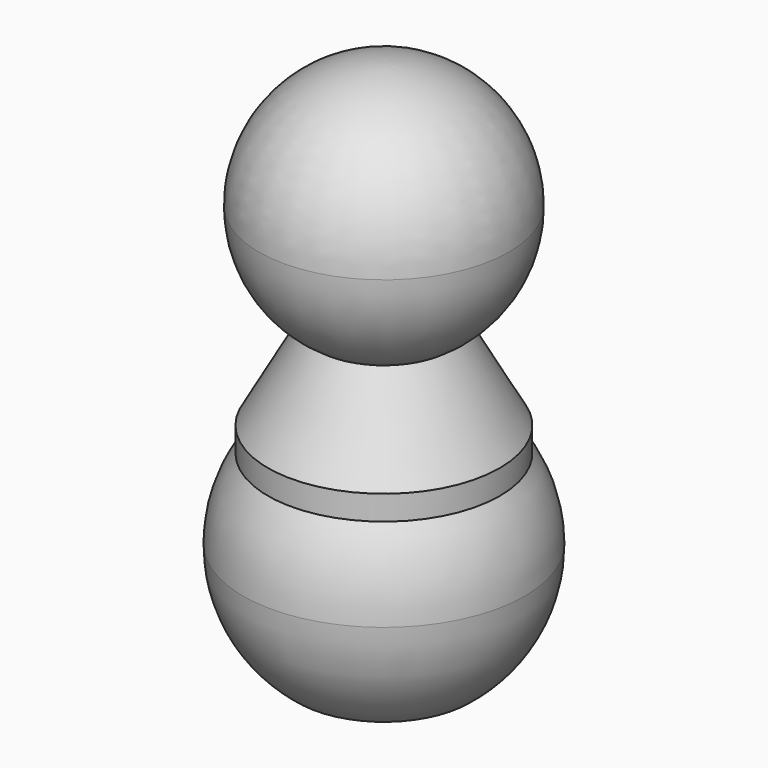
from build123d import *


with BuildPart() as f1:
    # F0 (on Front) → F1 (revolve)
    with BuildSketch(Plane.XZ):
        with BuildLine():
            Line((0, 7), (0, 0))
            Line((0, 0), (5.332917, 0))
            ThreePointArc((5.332917, 0), (7.885736, 3.094214), (8.8, 7))
            ThreePointArc((8.8, 7), (8.401357, 9.618624), (7.241547, 12))
            Line((7.241547, 12), (0, 12))
            Line((0, 12), (0, 7))
        make_face()
        with BuildLine():
            Line((0, 15.8), (0, 12))
            Line((0, 12), (7.241547, 12))
            ThreePointArc((7.241547, 12), (4.08901, 14.792304), (0, 15.8))
        make_face()
        with BuildLine():
            Line((0, 17.778277), (0, 15.8))
            ThreePointArc((0, 15.8), (4.08901, 14.792304), (7.241547, 12))
            Line((7.241547, 12), (7.241547, 13.5322))
            Line((7.241547, 13.5322), (4.186306, 18.996876))
            ThreePointArc((4.186306, 18.996876), (2.180031, 18.08912), (0, 17.778277))
        make_face()
        with BuildLine():
            Line((0, 25.578277), (0, 17.778277))
            ThreePointArc((0, 17.778277), (2.180031, 18.08912), (4.186306, 18.996876))
            ThreePointArc((4.186306, 18.996876), (6.837148, 21.824158), (7.8, 25.578277))
            ThreePointArc((7.8, 25.578277), (5.515433, 31.09371), (0, 33.378277))
            Line((0, 33.378277), (0, 25.578277))
        make_face()
    revolve(axis=Axis((0, 0, 11.4), (0, 0, 1)))


solid = f1.part
